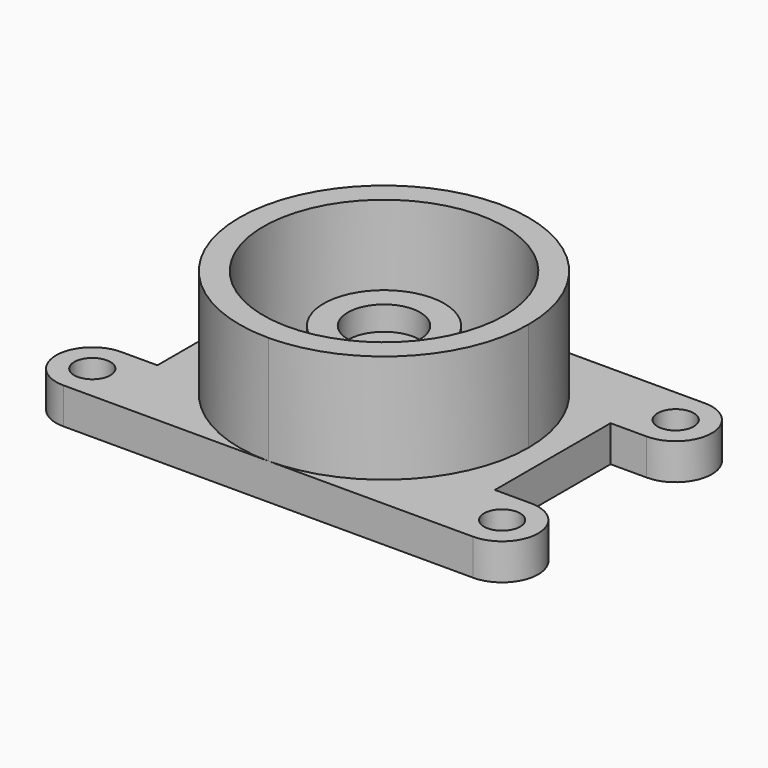
from build123d import *

# Parameters (mm, degrees)
F0_R     = 9.525
F0_R_2   = 63.5
F0_R_3   = 31.75
F0_R_4   = 19.05
F0_R_5   = 6.35
F1_DEPTH = 19.05
F2_DEPTH = 76.2
F3_DEPTH = 50.8
F4_DEPTH = 38.1


with BuildPart() as f1:
    # F0 (on Top) → F1 (new body)
    with BuildSketch(Plane.XY):
        with BuildLine():
            ThreePointArc((0, 76.2), (53.881537, 53.881537), (76.2, 0))
            ThreePointArc((76.2, 0), (53.881537, -53.881537), (0, -76.2))
            Line((0, -76.2), (88.9, -76.2))
            Line((88.9, -76.2), (107.95, -76.2))
            ThreePointArc((107.95, -76.2), (127, -57.15), (107.95, -38.1))
            Line((107.95, -38.1), (88.9, -38.1))
            Line((88.9, -38.1), (88.9, 38.1))
            Line((88.9, 38.1), (107.95, 38.1))
            ThreePointArc((107.95, 38.1), (127, 57.15), (107.95, 76.2))
            Line((107.95, 76.2), (88.9, 76.2))
            Line((88.9, 76.2), (0, 76.2))
        make_face()
        with Locations((107.95, -57.15)):
            Circle(F0_R, mode=Mode.SUBTRACT)
        with Locations((107.95, 57.15)):
            Circle(F0_R, mode=Mode.SUBTRACT)
        with BuildLine():
            ThreePointArc((0, -76.2), (-76.2, 0), (0, 76.2))
            Line((0, 76.2), (-88.9, 76.2))
            Line((-88.9, 76.2), (-107.95, 76.2))
            ThreePointArc((-107.95, 76.2), (-127, 57.15), (-107.95, 38.1))
            Line((-107.95, 38.1), (-88.9, 38.1))
            Line((-88.9, 38.1), (-88.9, -38.1))
            Line((-88.9, -38.1), (-107.95, -38.1))
            ThreePointArc((-107.95, -38.1), (-127, -57.15), (-107.95, -76.2))
            Line((-107.95, -76.2), (-88.9, -76.2))
            Line((-88.9, -76.2), (0, -76.2))
        make_face()
        with Locations((-107.95, -57.15)):
            Circle(F0_R, mode=Mode.SUBTRACT)
        with Locations((-107.95, 57.15)):
            Circle(F0_R, mode=Mode.SUBTRACT)
        Circle(F0_R_2)
        Circle(F0_R_3, mode=Mode.SUBTRACT)
        Circle(F0_R_3)
        Circle(F0_R_4, mode=Mode.SUBTRACT)
        Circle(F0_R_4)
        Circle(F0_R_5, mode=Mode.SUBTRACT)
        Circle(F0_R_5)
    extrude(amount=F1_DEPTH)

    # F0 (on Top) → F2 (join)
    with BuildSketch(Plane.XY):
        with BuildLine():
            ThreePointArc((0, -76.2), (53.881537, -53.881537), (76.2, 0))
            ThreePointArc((76.2, 0), (53.881537, 53.881537), (0, 76.2))
            ThreePointArc((0, 76.2), (-76.2, 0), (0, -76.2))
        make_face()
        Circle(F0_R_2, mode=Mode.SUBTRACT)
    extrude(amount=F2_DEPTH)

    # F0 (on Top) → F3 (join)
    with BuildSketch(Plane.XY):
        Circle(F0_R_3)
        Circle(F0_R_4, mode=Mode.SUBTRACT)
    extrude(amount=F3_DEPTH)

    # F0 (on Top) → F4 (join)
    with BuildSketch(Plane.XY):
        Circle(F0_R_4)
        Circle(F0_R_5, mode=Mode.SUBTRACT)
    extrude(amount=F4_DEPTH)


solid = f1.part
